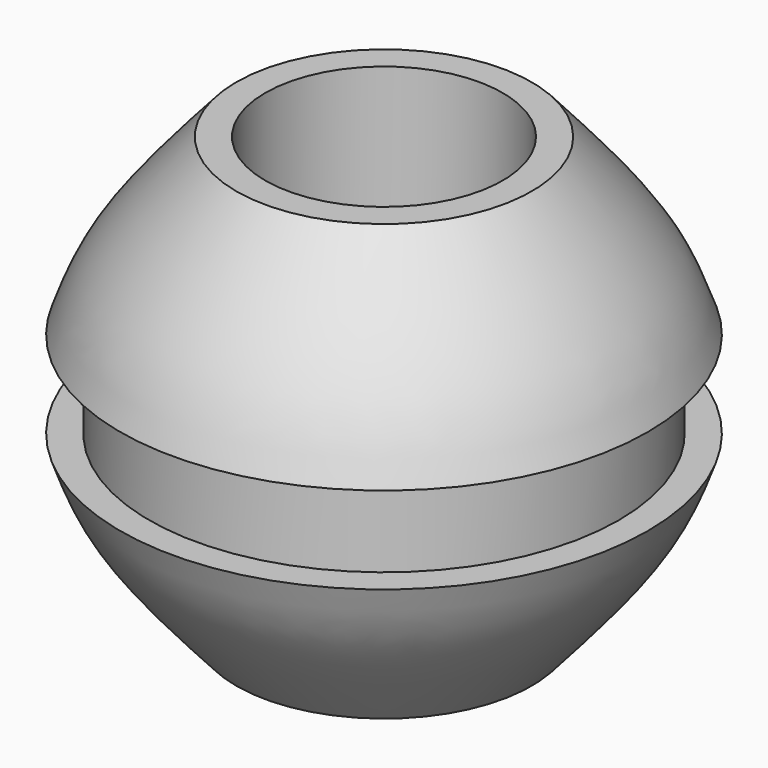
from build123d import *


with BuildPart() as f1:
    # F0 (on Front) → F1 (revolve)
    with BuildSketch(Plane.XZ):
        with BuildLine():
            Line((-4.0910357386, -7.5), (-4.0910357386, 7.5))
            Line((-4.0910357386, 7.5), (-5.0910357386, 7.5))
            add(Edge.make_bspline(
                [(-5.0910357386, 7.5), (-6.2467652474, 6.1909773683), (-8.2300415191, 3.9446442042), (-8.8375466465, 2.2197384441), (-9.0910357386, 1.5)],
                knots=[0, 0, 0, 0, 0.5827375265, 1, 1, 1, 1], degree=3))
            Line((-9.0910357386, 1.5), (-8.0910357386, 1.5))
            Line((-8.0910357386, 1.5), (-8.0910357386, -1.5))
            Line((-8.0910357386, -1.5), (-9.0910357386, -1.5))
            add(Edge.make_bspline(
                [(-5.0910357386, -7.5), (-6.2467652474, -6.1909773683), (-8.2300415191, -3.9446442042), (-8.8375466465, -2.2197384441), (-9.0910357386, -1.5)],
                knots=[0, 0, 0, 0, 0.5827375265, 1, 1, 1, 1], degree=3))
            Line((-5.0910357386, -7.5), (-4.0910357386, -7.5))
        make_face()
    revolve(axis=Axis((0, 0, 0), (0, 0, -1)))


solid = f1.part
